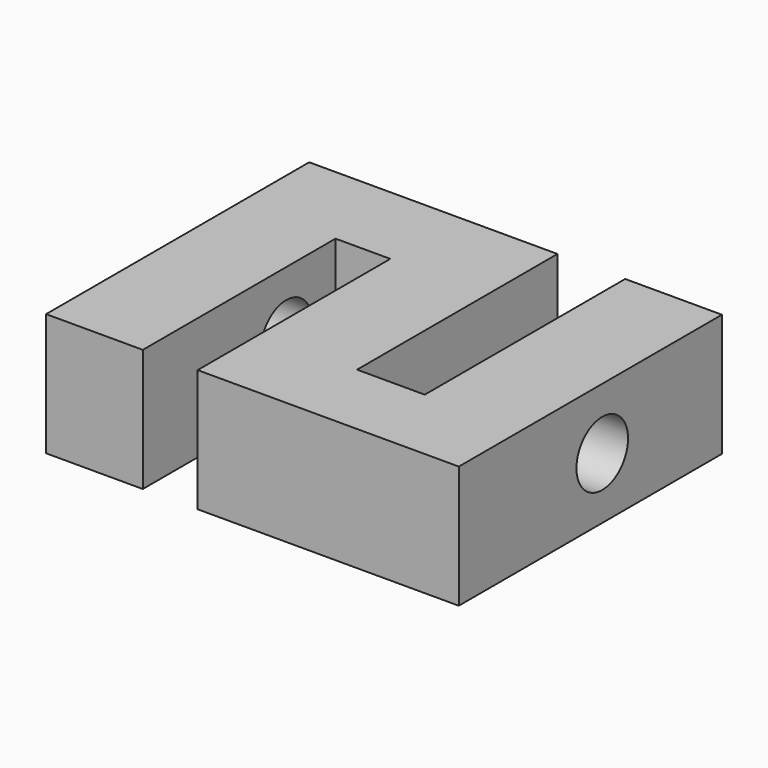
from build123d import *

# Parameters (mm, degrees)
F1_DEPTH = 19
F3_R     = 5
F4_DEPTH = 16
F6_R     = 5
F7_DEPTH = 16


with BuildPart() as f1:
    # F0 (on Top) → F1 (new body)
    with BuildSketch(Plane.XY):
        Polygon((3.1210286321, 23.2000579238), (-35.3789713679, 23.2000579238), (-35.3789713679, -27.7999420762), (-20.3789713679, -27.7999420762), (-20.3789713679, 9.5500578434), (-11.8789713679, 9.5500578434), (-11.8789713679, -27.7999420762), (28.6210286321, -27.7999420762), (28.6210286321, 23.2000579238), (13.6210286321, 23.2000579238), (13.6210286321, -15.6499421298), (3.1210286321, -15.6499421298), align=None)
    extrude(amount=F1_DEPTH)

    # F3 (on offset) → F4 (cut)
    with BuildSketch(Plane.YZ.offset(28.6210286321)):
        with Locations((0, 9.5)):
            Circle(F3_R)
    extrude(amount=-F4_DEPTH, mode=Mode.SUBTRACT)

    # F6 (on offset) → F7 (cut)
    with BuildSketch(Plane(origin=(-35.3789713679, 0, 0), x_dir=(0, -1, 0), z_dir=(-1, 0, 0))):
        with Locations((0, 9.5)):
            Circle(F6_R)
    extrude(amount=-F7_DEPTH, mode=Mode.SUBTRACT)


solid = f1.part
